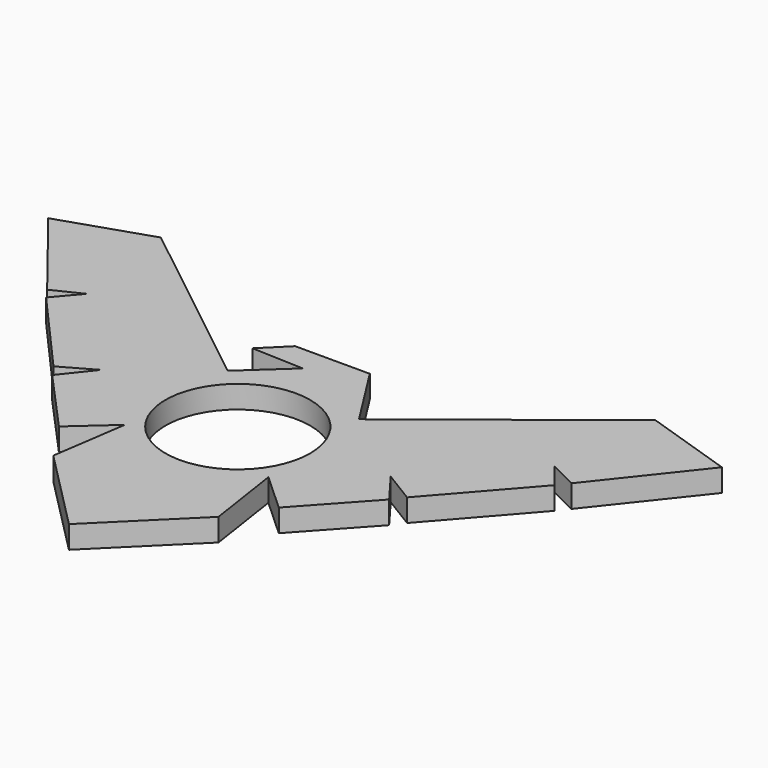
from build123d import *

# Parameters (mm, degrees)
F1_DEPTH = 6.9342
F2_SCALE = 0.5
F3_R     = 11.0998
F4_DEPTH = 25.4


with BuildPart() as f1:
    # F0 (on Top) → F1 (new body)
    with BuildSketch(Plane.XY):
        Polygon((-75.6856215453, 61.495130631), (-103.0089063366, 52.4619456377), (-80.056669942, 23.3529183213), (-71.3269899235, 27.5684058967), (-77.7287712085, 20.0368960855), (-54.0167096295, -6.7615591093), (-43.9553417197, -1.0685261115), (-51.4435459742, -10.473888544), (-33.5140929693, -30.3097563356), (-21.7221314678, -19.7887847189), (-25.1305638593, -42.9484921738), (0, -68.3683384545), (25.6179132403, -43.0419616731), (22.0779453622, -19.4793259238), (33.8894912196, -30.2508644393), (51.9251031665, -10.473888544), (44.763548994, -0.9251482466), (54.5851095356, -6.9272132295), (78.2306868312, 20.0916471891), (72.0478651347, 27.7012792084), (80.7445831733, 23.3529183213), (103.7288850297, 52.37963034), (76.0650205074, 61.495130631), (20.2681753259, 17.5302260523), (7.5507578667, 37.5718755511), (-15.3496812645, 37.5718755511), (-22.6703244303, 30.3177857753), (-6.6980118564, 29.7188239429), (-20.0065281242, 17.5278745592), align=None)
    extrude(amount=F1_DEPTH)


with BuildPart() as f1_1:
    # F2: moved
    add(f1.part.scale(F2_SCALE))

    # F3 (on face) → F4 (cut)
    with BuildSketch(Plane.XY.offset(3.4671)):
        with Locations((0, -1.8054934917)):
            Circle(F3_R)
    extrude(amount=-F4_DEPTH, mode=Mode.SUBTRACT)


solid = f1_1.part
